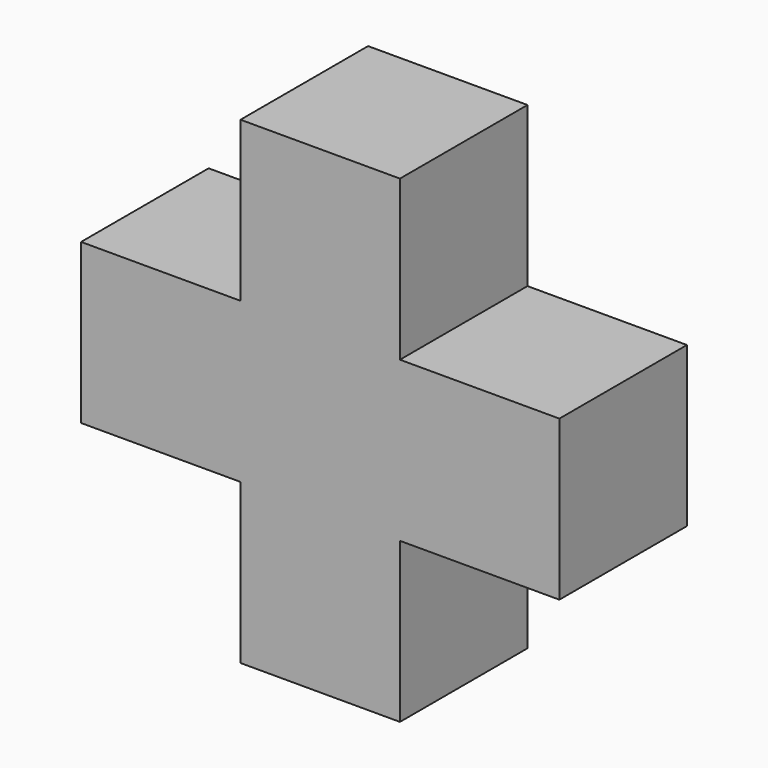
from build123d import *

# Parameters (mm, degrees)
F0_W     = 25.4
F0_H     = 25.4
F1_DEPTH = 12.7
F2_W     = 25.4
F2_H     = 25.4
F3_DEPTH = 25.4
F4_W     = 25.4
F4_H     = 25.4
F5_DEPTH = 25.4
F6_W     = 25.4
F6_H     = 25.4
F7_DEPTH = 25.4
F8_W     = 25.4
F8_H     = 25.4
F9_DEPTH = 25.4


with BuildPart() as f1:
    # F0 (on Front) → F1 (new body, symmetric)
    with BuildSketch(Plane.XZ):
        with Locations((12.7, 12.7)):
            Rectangle(F0_W, F0_H)
    extrude(amount=F1_DEPTH, both=True)

    # F2 (on face) → F3 (join)
    with BuildSketch(Plane(origin=(0, 0, 0), x_dir=(1, 0, 0), z_dir=(0, 0, -1))):
        with Locations((12.7, 0)):
            Rectangle(F2_W, F2_H)
    extrude(amount=F3_DEPTH)

    # F4 (on face) → F5 (join)
    with BuildSketch(Plane.YZ.offset(25.4)):
        with Locations((0, 12.7)):
            Rectangle(F4_W, F4_H)
    extrude(amount=F5_DEPTH)

    # F6 (on face) → F7 (join)
    with BuildSketch(Plane(origin=(0, 0, 0), x_dir=(0, -1, 0), z_dir=(-1, 0, 0))):
        with Locations((0, 12.7)):
            Rectangle(F6_W, F6_H)
    extrude(amount=F7_DEPTH)

    # F8 (on face) → F9 (join)
    with BuildSketch(Plane.XY.offset(25.4)):
        with Locations((12.7, 0)):
            Rectangle(F8_W, F8_H)
    extrude(amount=F9_DEPTH)


solid = f1.part
